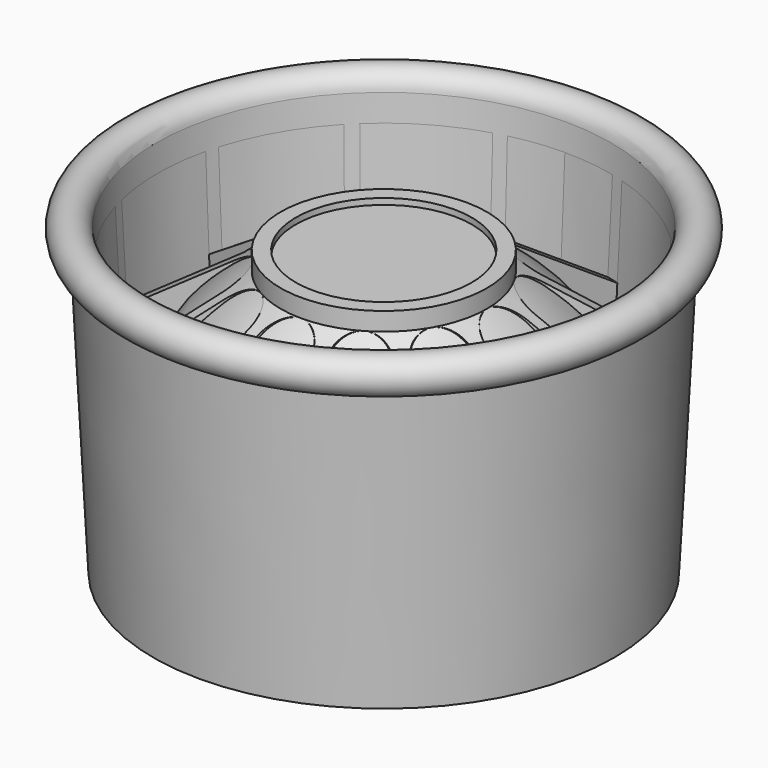
from build123d import *

# Parameters (mm, degrees)
F3_DEPTH = 45.7419640423
F8_DEPTH = 10
F7_R     = 0.9168666097
F9_DEPTH = 7


with BuildPart() as f1:
    # F0 (on Right) → F1 (revolve)
    with BuildSketch(Plane.YZ):
        Polygon((40.4962588823, 49.9376480383), (37.5, 50.0874235712), (36.5514216247, 31.1111173167), (17, 43.7409640423), (17, 46.7409640423), (14.5, 46.7409640423), (14.5, 45.7409640423), (0, 45.7409640423), (0, 0), (34.9962542111, 0), (38, 0), (40.3464833494, 46.941389156), align=None)
        Polygon((40.4962588823, 49.9376480383), (37.5, 50.0874235712), (36.5514216247, 31.1111173167), (17, 43.7409640423), (17, 46.7409640423), (14.5, 46.7409640423), (14.5, 45.7409640423), (0, 45.7409640423), (0, 0), (34.9962542111, 0), (38, 0), (40.3464833494, 46.941389156), align=None)
        with BuildLine():
            ThreePointArc((40.3464833494, 46.941389156), (42.7208411512, 51.9504157171), (37.5, 50.0874235712))
            Line((37.5, 50.0874235712), (40.4962588823, 49.9376480383))
            Line((40.4962588823, 49.9376480383), (40.3464833494, 46.941389156))
        make_face()
    revolve(axis=Axis((0, 0, 22.8704820211), (0, 0, -1)))

    # F2 (on face) → F3 (cut, through all)
    with BuildSketch(Plane.XY.offset(45.7409640423)):
        with BuildLine():
            ThreePointArc((8.7101611481, 36.4744169628), (0, 37.5), (-8.7101611481, 36.4744169628))
            Line((-8.7101611481, 36.4744169628), (-4.3958047282, 20.3730196018))
            ThreePointArc((-4.3958047282, 20.3730196018), (-2.7703952986, 17.9404224829), (0, 17))
            ThreePointArc((0, 17), (2.7703952986, 17.9404224829), (4.3958047282, 20.3730196018))
            Line((4.3958047282, 20.3730196018), (8.7101611481, 36.4744169628))
        make_face()
        with BuildLine():
            Line((13.9933883634, 15.4456501649), (25.7804293028, 27.2326911077))
            ThreePointArc((25.7804293028, 27.2326911077), (18.7499999953, 32.4759526446), (10.6939876509, 35.9428522536))
            Line((10.6939876509, 35.9428522536), (6.3796312334, 19.841454892))
            ThreePointArc((6.3796312334, 19.841454892), (6.5709785318, 16.922059275), (8.4999999979, 14.7224318656))
            ThreePointArc((8.4999999979, 14.7224318656), (11.3694439465, 14.1516639771), (13.9933883634, 15.4456501649))
        make_face()
        with BuildLine():
            Line((19.8414548893, 6.3796312419), (35.942852249, 10.6939876664))
            ThreePointArc((35.942852249, 10.6939876664), (32.4759526365, 18.7500000093), (27.2326910965, 25.7804293145))
            Line((27.2326910965, 25.7804293145), (15.4456501589, 13.9933883701))
            ThreePointArc((15.4456501589, 13.9933883701), (14.1516639722, 11.3694439526), (14.7224318619, 8.5000000042))
            ThreePointArc((14.7224318619, 8.5000000042), (16.9220592722, 6.5709785391), (19.8414548893, 6.3796312419))
        make_face()
        with BuildLine():
            Line((20.3730196037, -4.3958047194), (36.4744169665, -8.7101611324))
            ThreePointArc((36.4744169665, -8.7101611324), (37.5, 1.62e-08), (36.474416959, 8.7101611638))
            Line((36.474416959, 8.7101611638), (20.3730195999, 4.395804737))
            ThreePointArc((20.3730195999, 4.395804737), (17.9404224817, 2.7703953064), (17, 7.3e-09))
            ThreePointArc((17, 7.3e-09), (17.9404224841, -2.7703952909), (20.3730196037, -4.3958047194))
        make_face()
        with BuildLine():
            Line((15.4456501709, -13.9933883567), (27.2326911188, -25.780429291))
            ThreePointArc((27.2326911188, -25.780429291), (32.4759526527, -18.7499999813), (35.9428522582, -10.6939876354))
            Line((35.9428522582, -10.6939876354), (19.8414548948, -6.3796312248))
            ThreePointArc((19.8414548948, -6.3796312248), (16.9220592779, -6.5709785246), (14.7224318692, -8.4999999915))
            ThreePointArc((14.7224318692, -8.4999999915), (14.151663982, -11.3694439404), (15.4456501709, -13.9933883567))
        make_face()
        with BuildLine():
            Line((6.3796312505, -19.8414548865), (10.6939876819, -35.9428522443))
            ThreePointArc((10.6939876819, -35.9428522443), (18.7500000233, -32.4759526284), (25.7804293263, -27.2326910854))
            Line((25.7804293263, -27.2326910854), (13.9933883767, -15.4456501528))
            ThreePointArc((13.9933883767, -15.4456501528), (11.3694439587, -14.1516639673), (8.5000000106, -14.7224318582))
            ThreePointArc((8.5000000106, -14.7224318582), (6.5709785464, -16.9220592694), (6.3796312505, -19.8414548865))
        make_face()
        with BuildLine():
            Line((-4.3958047106, -20.3730196056), (-8.7101611166, -36.4744169703))
            ThreePointArc((-8.7101611166, -36.4744169703), (3.23e-08, -37.5), (8.7101611795, -36.4744169553))
            Line((8.7101611795, -36.4744169553), (4.3958047458, -20.373019598))
            ThreePointArc((4.3958047458, -20.373019598), (2.7703953141, -17.9404224805), (1.47e-08, -17))
            ThreePointArc((1.47e-08, -17), (-2.7703952832, -17.9404224852), (-4.3958047106, -20.3730196056))
        make_face()
        with BuildLine():
            Line((-13.9933883501, -15.445650177), (-25.7804292793, -27.2326911299))
            ThreePointArc((-25.7804292793, -27.2326911299), (-18.7499999673, -32.4759526608), (-10.6939876199, -35.9428522628))
            Line((-10.6939876199, -35.9428522628), (-6.3796312163, -19.8414548975))
            ThreePointArc((-6.3796312163, -19.8414548975), (-6.5709785173, -16.9220592807), (-8.4999999852, -14.7224318729))
            ThreePointArc((-8.4999999852, -14.7224318729), (-11.3694439343, -14.1516639869), (-13.9933883501, -15.445650177))
        make_face()
        with BuildLine():
            Line((-19.8414548838, -6.379631259), (-35.9428522397, -10.6939876974))
            ThreePointArc((-35.9428522397, -10.6939876974), (-32.4759526204, -18.7500000373), (-27.2326910743, -25.780429338))
            Line((-27.2326910743, -25.780429338), (-15.4456501468, -13.9933883834))
            ThreePointArc((-15.4456501468, -13.9933883834), (-14.1516639624, -11.3694439649), (-14.7224318546, -8.5000000169))
            ThreePointArc((-14.7224318546, -8.5000000169), (-16.9220592665, -6.5709785537), (-19.8414548838, -6.379631259))
        make_face()
        with BuildLine():
            Line((-20.3730196075, 4.3958047018), (-36.474416974, 8.7101611009))
            ThreePointArc((-36.474416974, 8.7101611009), (-37.5, -4.85e-08), (-36.4744169515, -8.7101611953))
            Line((-36.4744169515, -8.7101611953), (-20.3730195962, -4.3958047546))
            ThreePointArc((-20.3730195962, -4.3958047546), (-17.9404224793, -2.7703953219), (-17, -2.2e-08))
            ThreePointArc((-17, -2.2e-08), (-17.9404224864, 2.7703952754), (-20.3730196075, 4.3958047018))
        make_face()
        with BuildLine():
            Line((-15.445650183, 13.9933883434), (-27.232691141, 25.7804292675))
            ThreePointArc((-27.232691141, 25.7804292675), (-32.4759526689, 18.7499999533), (-35.9428522674, 10.6939876044))
            Line((-35.9428522674, 10.6939876044), (-19.8414549003, 6.3796312077))
            ThreePointArc((-19.8414549003, 6.3796312077), (-16.9220592835, 6.57097851), (-14.7224318766, 8.4999999788))
            ThreePointArc((-14.7224318766, 8.4999999788), (-14.1516639918, 11.3694439282), (-15.445650183, 13.9933883434))
        make_face()
        with BuildLine():
            Line((-6.3796312676, 19.841454881), (-10.6939877129, 35.9428522351))
            ThreePointArc((-10.6939877129, 35.9428522351), (-18.7500000514, 32.4759526123), (-25.7804293497, 27.2326910632))
            Line((-25.7804293497, 27.2326910632), (-13.99338839, 15.4456501408))
            ThreePointArc((-13.99338839, 15.4456501408), (-11.369443971, 14.1516639575), (-8.5000000233, 14.7224318509))
            ThreePointArc((-8.5000000233, 14.7224318509), (-6.570978561, 16.9220592637), (-6.3796312676, 19.841454881))
        make_face()
    extrude(amount=-F3_DEPTH, mode=Mode.SUBTRACT)

    # F4 (on Right) → F5 (revolve, cut)
    with BuildSketch(Plane.YZ):
        with BuildLine():
            Line((29.5, 7), (27.5, 7))
            Line((27.5, 7), (27.5, 26))
            add(Edge.make_bspline(
                [(27.5, 26), (24.5748627931, 32.5214229524), (18.0778689682, 40.3190180659), (11.1502979692, 45)],
                knots=[0, 0, 0, 0, 25.0661675669, 25.0661675669, 25.0661675669, 25.0661675669], degree=3))
            Line((11.1502979692, 45), (0, 45))
            Line((0, 45), (0, 0))
            Line((0, 0), (34.9962542111, 0))
            Line((34.9962542111, 0), (35.0962292392, 2))
            Line((35.0962292392, 2), (31.5, 2))
            Line((31.5, 2), (29.5, 2))
            Line((29.5, 2), (29.5, 7))
        make_face()
    revolve(axis=Axis((0, 0, 22.5), (0, 0, -1)), mode=Mode.SUBTRACT)

    # F4 (on Right) → F6 (revolve)
    with BuildSketch(Plane.YZ):
        with BuildLine():
            Line((27.5, 26), (27.5, 7))
            Line((27.5, 7), (29.5, 7))
            Line((29.5, 7), (29.5, 2))
            Line((29.5, 2), (31.5, 2))
            Line((31.5, 2), (31.5, 26))
            add(Edge.make_bspline(
                [(31.5, 26), (28.1898081303, 35.6047783494), (22.2840066999, 39.742834866), (17, 43.7409640423)],
                knots=[0, 0, 0, 0, 22.9126996478, 22.9126996478, 22.9126996478, 22.9126996478], degree=3))
            Line((17, 43.7409640423), (14.5, 45.7409640423))
            Line((14.5, 45.7409640423), (0, 45.7409640423))
            Line((0, 45.7409640423), (0, 45))
            Line((0, 45), (11.1502979692, 45))
            add(Edge.make_bspline(
                [(27.5, 26), (24.5748627931, 32.5214229524), (18.0778689682, 40.3190180659), (11.1502979692, 45)],
                knots=[0, 0, 0, 0, 25.0661675669, 25.0661675669, 25.0661675669, 25.0661675669], degree=3))
        make_face()
        Polygon((37.5, 50.0874235712), (35.0962292392, 2), (36.5, 2), (36.5, 0), (38, 0), (40.4962588823, 49.9376480383), align=None)
        Polygon((36.5, 2), (35.0962292392, 2), (34.9962542111, 0), (36.5, 0), align=None)
    revolve(axis=Axis((0, 0, 22.5), (0, 0, -1)))

    # F7 (on face) → F8 (join)
    with BuildSketch(Plane(origin=(0, 0, 2), x_dir=(1, 0, 0), z_dir=(0, 0, -1))):
        with BuildLine():
            Line((7.1565532716, 30.6762733276), (7.8727657371, 33.3492146289))
            ThreePointArc((7.8727657371, 33.3492146289), (6.6070651328, 32.4087025619), (6.3593233176, 30.8514020255))
            ThreePointArc((6.3593233176, 30.8514020255), (6.7585055677, 30.7664200467), (7.1565532716, 30.6762733276))
        make_face()
        with BuildLine():
            ThreePointArc((9.9183655161, 29.8977595396), (10.33667076, 30.5581681255), (10.4829324475, 31.3261045136))
            ThreePointArc((10.4829324475, 31.3261045136), (10.3199932669, 32.1349632387), (9.8565922399, 32.8176499178))
            Line((9.8565922399, 32.8176499178), (9.1403797748, 30.1447086165))
            ThreePointArc((9.1403797748, 30.1447086165), (9.5301725576, 30.0237541127), (9.9183655161, 29.8977595396))
        make_face()
        with BuildLine():
            ThreePointArc((25.0214281084, -22.9323001302), (24.6102082945, -21.6876797338), (23.5384362377, -20.9330365567))
            ThreePointArc((23.5384362377, -20.9330365567), (23.2652485662, -21.2362475299), (22.9881553718, -21.5358935873))
            Line((22.9881553718, -21.5358935873), (24.9448842024, -23.492622419))
            ThreePointArc((24.9448842024, -23.492622419), (25.002203679, -23.2150632983), (25.0214281084, -22.9323001302))
        make_face()
        with BuildLine():
            Line((23.4926224231, -24.9448842274), (21.5358935774, -22.9881553811))
            ThreePointArc((21.5358935774, -22.9881553811), (21.2362475065, -23.2652485876), (20.9330365195, -23.5384362708))
            ThreePointArc((20.9330365195, -23.5384362708), (21.9262375012, -24.763227196), (23.4926224231, -24.9448842274))
        make_face()
        with BuildLine():
            Line((-30.1447086362, -9.1403797098), (-32.8176499492, -9.8565921719))
            ThreePointArc((-32.8176499492, -9.8565921719), (-31.3702923001, -10.4824650312), (-29.8977595553, -9.9183654688))
            ThreePointArc((-29.8977595553, -9.9183654688), (-30.0237541306, -9.5301725015), (-30.1447086362, -9.1403797098))
        make_face()
        with BuildLine():
            ThreePointArc((-30.6762733431, -7.1565532054), (-30.7664200594, -6.7585055102), (-30.8514020356, -6.3593232689))
            ThreePointArc((-30.8514020356, -6.3593232689), (-32.4087025627, -6.6070650757), (-33.3492146357, -7.8727656625))
            Line((-33.3492146357, -7.8727656625), (-30.6762733431, -7.1565532054))
        make_face()
    extrude(amount=-F8_DEPTH)

    # F7 (on face) → F9 (cut)
    with BuildSketch(Plane(origin=(0, 0, 2), x_dir=(1, 0, 0), z_dir=(0, 0, -1))):
        with Locations((8.393804433, 31.3261045136)):
            Circle(F7_R)
        with Locations((22.9323000939, -22.9323001302)):
            Circle(F7_R)
        with Locations((-31.3261045269, -8.3938043835)):
            Circle(F7_R)
    extrude(amount=-F9_DEPTH, mode=Mode.SUBTRACT)


solid = f1.part
